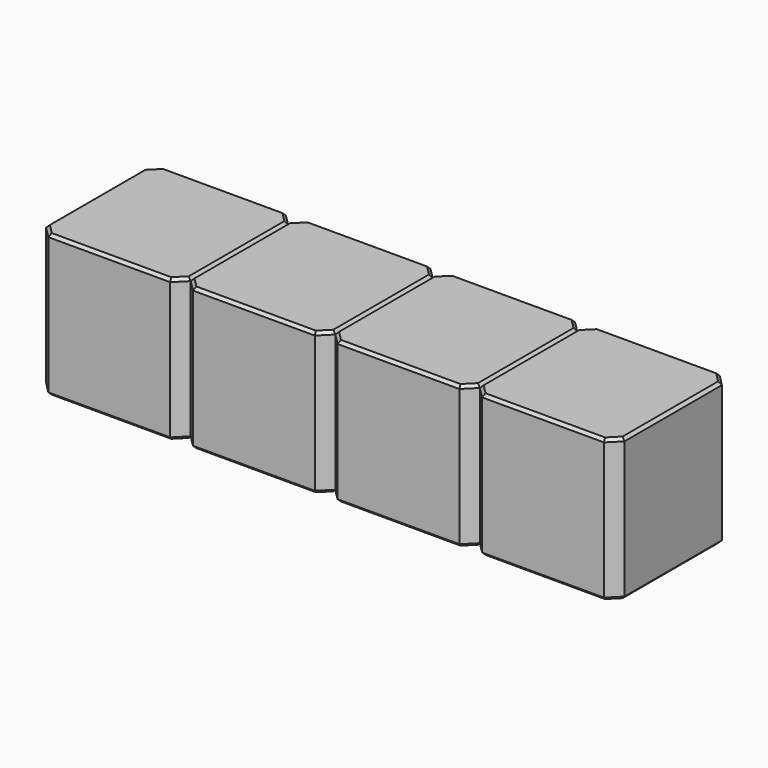
from build123d import *

# Parameters (mm, degrees)
SKETCH226_W      = 2.54
SKETCH226_H      = 2.54
PAD081_DEPTH     = 2.5
CHAMFER041_SIZE  = 0.2
CHAMFER040_SIZE  = 0.05
ARRAY013_X_COUNT = 4
ARRAY013_X_PITCH = 2.54


with BuildPart() as array013:
    # Sketch226 → Pad081 (new body)
    with BuildSketch(Plane.XY):
        Rectangle(SKETCH226_W, SKETCH226_H)
    extrude(amount=PAD081_DEPTH)

    # Chamfer041
    chamfer041_edges = [array013.edges().sort_by_distance(p)[0] for p in [
        (1.27, -1.27, 1.25),
        (-1.27, -1.27, 1.25),
        (1.27, 1.27, 1.25),
        (-1.27, 1.27, 1.25),
    ]]
    chamfer(chamfer041_edges, length=CHAMFER041_SIZE)

    # Chamfer040
    chamfer040_edges = [array013.edges().sort_by_distance(p)[0] for p in [
        (0, -1.27, 2.5),
        (-1.17, -1.17, 2.5),
        (1.17, -1.17, 2.5),
        (-1.27, 0, 2.5),
        (1.27, 0, 2.5),
        (-1.17, 1.17, 2.5),
        (1.17, 1.17, 2.5),
        (0, 1.27, 2.5),
        (0, -1.27, 0),
        (-1.17, -1.17, 0),
        (1.17, -1.17, 0),
        (-1.27, 0, 0),
        (1.27, 0, 0),
        (-1.17, 1.17, 0),
        (1.17, 1.17, 0),
        (0, 1.27, 0),
    ]]
    chamfer(chamfer040_edges, length=CHAMFER040_SIZE)


with BuildPart() as array013_copy1:
    # Array013 X: instance of Array013
    add(array013.part.moved(Location(Vector(1, 0, 0) * (1 * ARRAY013_X_PITCH))))


with BuildPart() as array013_copy2:
    # Array013 X: instance of Array013
    add(array013.part.moved(Location(Vector(1, 0, 0) * (2 * ARRAY013_X_PITCH))))


with BuildPart() as array013_copy3:
    # Array013 X: instance of Array013
    add(array013.part.moved(Location(Vector(1, 0, 0) * (3 * ARRAY013_X_PITCH))))


solid = Compound([array013.part, array013_copy1.part, array013_copy2.part, array013_copy3.part])
